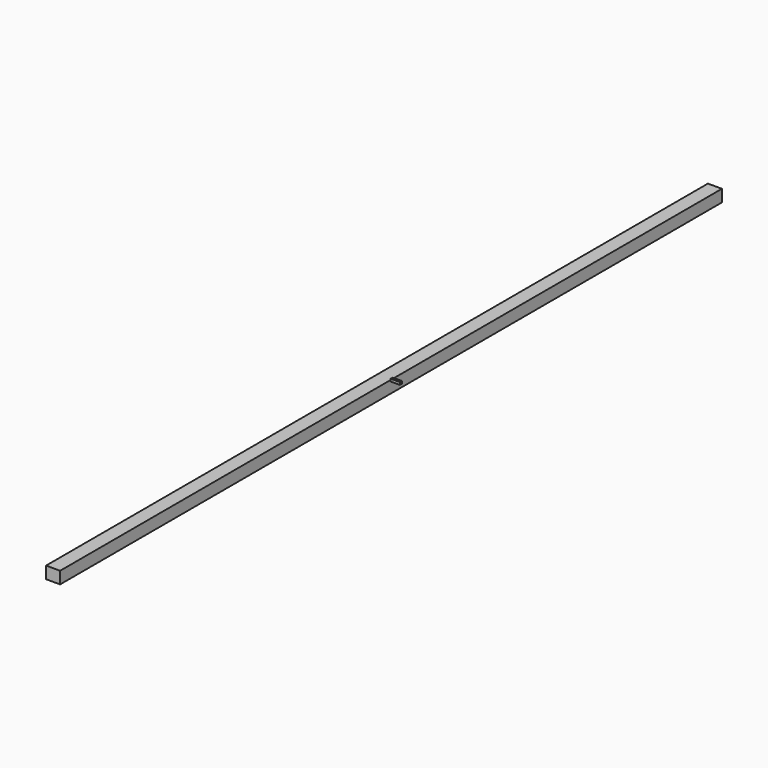
from build123d import *

# Parameters (mm, degrees)
F1_DEPTH = 4229.1
F2_W     = 92.750423
F2_H     = 25.867587
F3_DEPTH = 25.4


with BuildPart() as f1:
    # F0 (on Front) → F1 (new body, symmetric)
    with BuildSketch(Plane.XZ):
        with BuildLine():
            Line((-17.3975, -123), (-17.3975, 0))
            add(Edge.make_bspline(
                [(-17.3975, 0), (-45.15033, 0), (-105.06282, 0), (-160.915077, 0)],
                knots=[34.009572, 34.009572, 34.009572, 34.009572, 153.043664, 153.043664, 153.043664, 153.043664], degree=3))
            Line((-160.915077, 0), (-160.915077, -123))
            Line((-160.915077, -123), (-17.3975, -123))
        make_face()
    extrude(amount=F1_DEPTH, both=True)


with BuildPart() as f3:
    # F2 (on Top) → F3 (new body)
    with BuildSketch(Plane.XY):
        with Locations((46.375211, -12.933794)):
            Rectangle(F2_W, F2_H)
    extrude(amount=F3_DEPTH)


solid = Compound([f1.part, f3.part])
